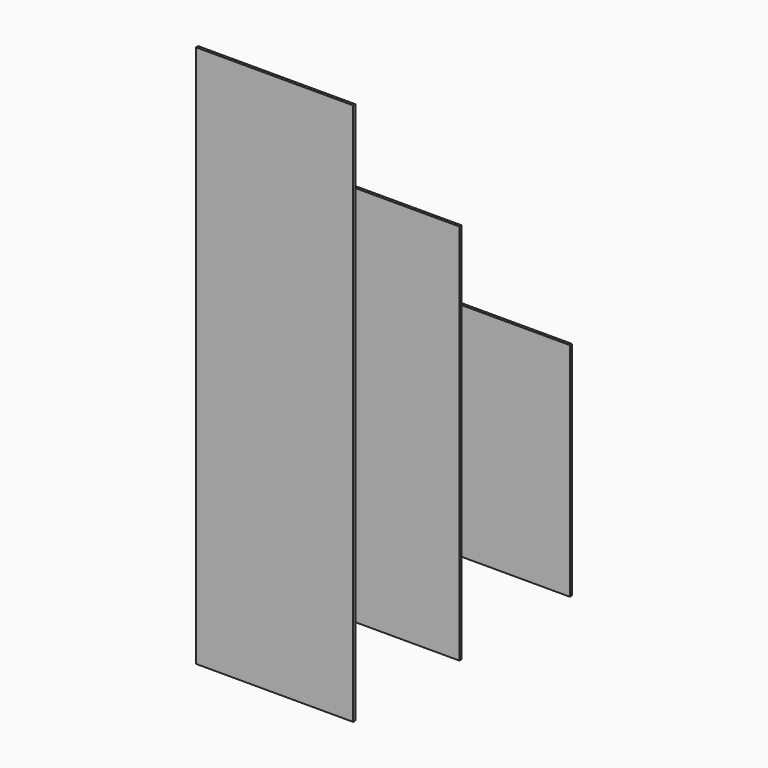
from build123d import *

# Parameters (mm, degrees)
F2_W     = 10
F2_H     = 2003.011991
F2_H_2   = 1410.306824
F2_H_3   = 817.601657
F3_DEPTH = 580


with BuildPart() as f3:
    # F2 (on Right) → F3 (new body)
    with BuildSketch(Plane.YZ):
        with Locations((745, 1001.505995)):
            Rectangle(F2_W, F2_H)
        with Locations((1235, 705.153412)):
            Rectangle(F2_W, F2_H_2)
        with Locations((1745, 408.800828)):
            Rectangle(F2_W, F2_H_3)
    extrude(amount=-F3_DEPTH)


solid = f3.part
